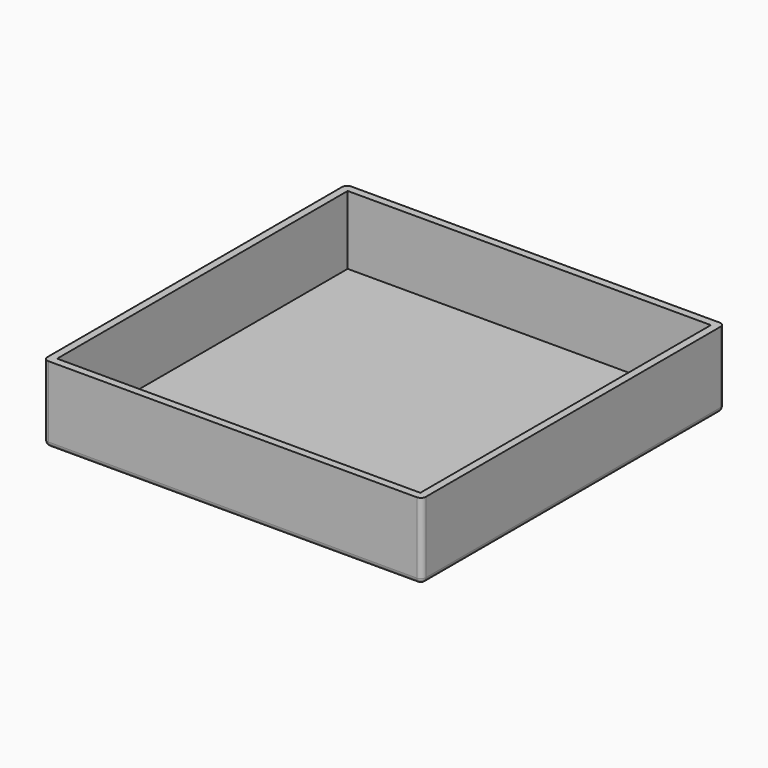
from build123d import *

# Parameters (mm, degrees)
SKETCH_W     = 149
SKETCH_H     = 149
PAD_DEPTH    = 30
SKETCH001_W  = 143
SKETCH001_H  = 143
POCKET_DEPTH = 27
FILLET_R     = 2
FILLET001_R  = 2


with BuildPart() as part:
    # Sketch → Pad (new body)
    with BuildSketch(Plane.XY):
        Rectangle(SKETCH_W, SKETCH_H)
    extrude(amount=PAD_DEPTH)

    # Sketch001 (on Face6 of Pad) → Pocket (cut)
    with BuildSketch(Plane.XY.offset(30)):
        Rectangle(SKETCH001_W, SKETCH001_H)
    extrude(amount=-POCKET_DEPTH, mode=Mode.SUBTRACT)

    # Fillet
    fillet_edges = [part.edges().sort_by_distance(p)[0] for p in [
        (74.5, -74.5, 15),
        (-74.5, -74.5, 15),
        (74.5, 74.5, 15),
        (-74.5, 74.5, 15),
    ]]
    fillet(fillet_edges, radius=FILLET_R)

    # Fillet001
    fillet001_edges = [part.edges().sort_by_distance(p)[0] for p in [
        (0, 74.5, 0),
        (-74.5, 0, 0),
        (0, -74.5, 0),
        (74.5, 0, 0),
    ]]
    fillet(fillet001_edges, radius=FILLET001_R)


solid = part.part
